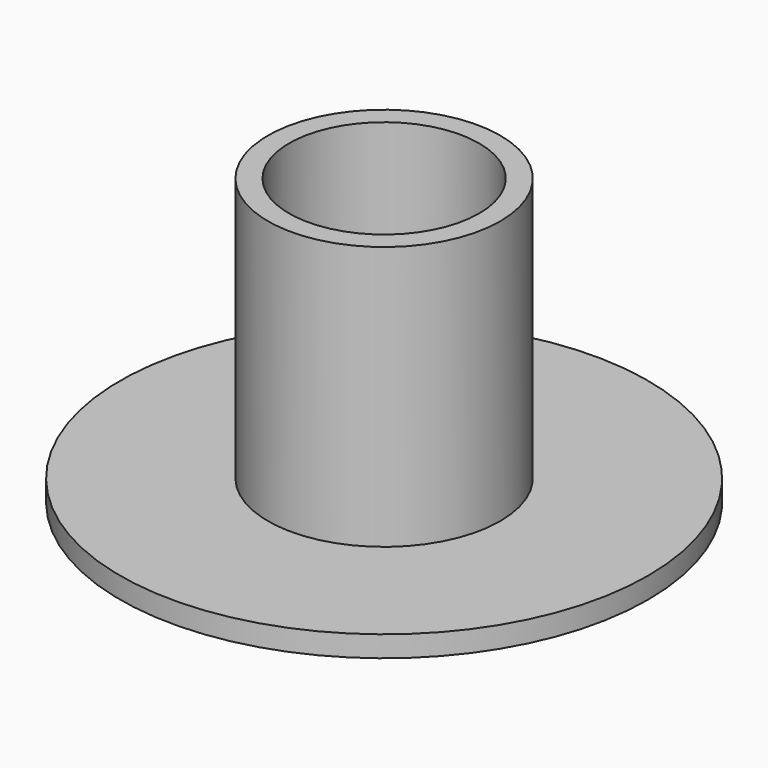
from build123d import *

# Parameters (mm, degrees)
F0_R     = 25
F1_DEPTH = 2
F2_R     = 9
F3_DEPTH = 25
F4_R     = 11
F4_R_2   = 9
F5_DEPTH = 25


with BuildPart() as f1:
    # F0 (on Top) → F1 (new body)
    with BuildSketch(Plane.XY):
        Circle(F0_R)
    extrude(amount=-F1_DEPTH)

    # F2 (on Top) → F3 (cut)
    with BuildSketch(Plane.XY):
        Circle(F2_R)
    extrude(amount=-F3_DEPTH, mode=Mode.SUBTRACT)


with BuildPart() as f5:
    # F4 (on Top) → F5 (new body)
    with BuildSketch(Plane.XY):
        Circle(F4_R)
        Circle(F4_R_2, mode=Mode.SUBTRACT)
    extrude(amount=F5_DEPTH)


solid = Compound([f1.part, f5.part])
